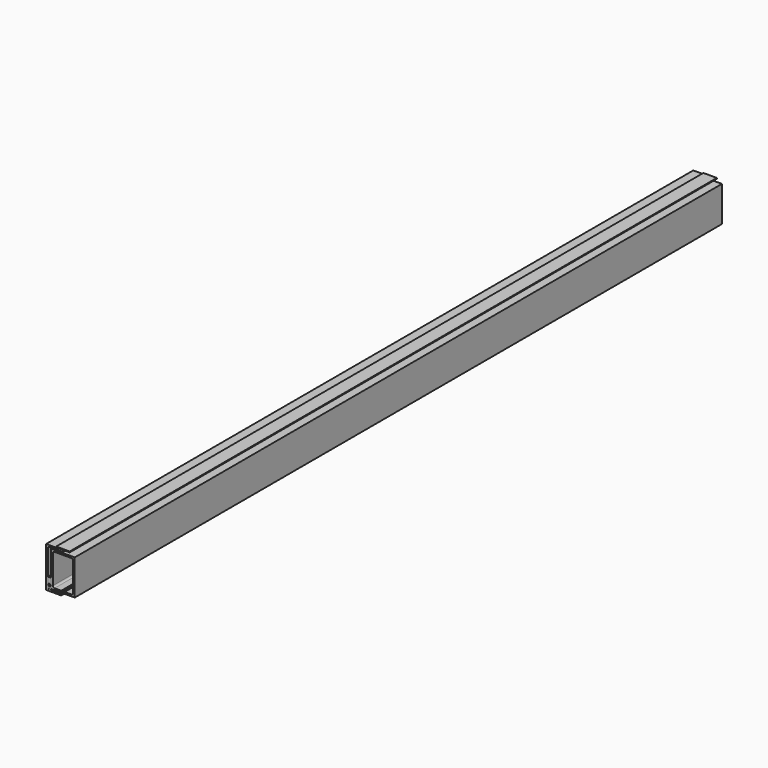
from build123d import *

# Parameters (mm, degrees)
F0_W     = 101.6
F0_H     = 6.35
F1_DEPTH = 6096
F2_DEPTH = 3048


with BuildPart() as f1:
    # F0 (on Front) → F1 (new body)
    with BuildSketch(Plane.XZ):
        with BuildLine():
            ThreePointArc((0, -3.175), (-0.929936, -0.929936), (-3.175, 0))
            Line((-3.175, 0), (-127, 0))
            Line((-127, 0), (-127, -304.8))
            Line((-127, -304.8), (-12.7, -304.8))
            Line((-12.7, -304.8), (-12.7, -292.1))
            Line((-12.7, -292.1), (-101.6, -292.1))
            ThreePointArc((-101.6, -292.1), (-110.580256, -288.380256), (-114.3, -279.4))
            Line((-114.3, -279.4), (-114.3, -25.4))
            ThreePointArc((-114.3, -25.4), (-110.580256, -16.419744), (-101.6, -12.7))
            Line((-101.6, -12.7), (-3.175, -12.7))
            ThreePointArc((-3.175, -12.7), (-0.929936, -11.770064), (0, -9.525))
            Line((0, -9.525), (0, -3.175))
        make_face()
        with BuildLine():
            Line((88.9, -19.05), (-88.9, -19.05))
            Line((-88.9, -19.05), (-88.9, -285.75))
            Line((-88.9, -285.75), (-12.7, -285.75))
            Line((-12.7, -285.75), (-12.7, -273.05))
            Line((-12.7, -273.05), (-63.5, -273.05))
            ThreePointArc((-63.5, -273.05), (-72.480256, -269.330256), (-76.2, -260.35))
            Line((-76.2, -260.35), (-76.2, -44.45))
            ThreePointArc((-76.2, -44.45), (-72.480256, -35.469744), (-63.5, -31.75))
            Line((-63.5, -31.75), (63.5, -31.75))
            ThreePointArc((63.5, -31.75), (72.480256, -35.469744), (76.2, -44.45))
            Line((76.2, -44.45), (76.2, -260.35))
            ThreePointArc((76.2, -260.35), (72.480256, -269.330256), (63.5, -273.05))
            Line((63.5, -273.05), (12.7, -273.05))
            Line((12.7, -273.05), (12.7, -285.75))
            Line((12.7, -285.75), (88.9, -285.75))
            Line((88.9, -285.75), (88.9, -19.05))
        make_face()
        with BuildLine():
            Line((-90.4875, -266.7), (-92.208223, -266.7))
            ThreePointArc((-92.208223, -266.7), (-101.6, -274.6375), (-110.991777, -266.7))
            Line((-110.991777, -266.7), (-114.046, -266.7))
            Line((-114.046, -266.7), (-114.046, -279.4))
            ThreePointArc((-114.046, -279.4), (-110.400651, -288.200651), (-101.6, -291.846))
            Line((-101.6, -291.846), (-90.4875, -291.846))
            Line((-90.4875, -291.846), (-90.4875, -266.7))
        make_face()
        with Locations((0, 4.7625)):
            Rectangle(F0_W, F0_H)
    extrude(amount=-F1_DEPTH)


with BuildPart() as f2:
    # F0 (on Front) → F2 (new body)
    with BuildSketch(Plane.XZ):
        with BuildLine():
            Line((-89.154, -212.725), (-112.7125, -212.725))
            Line((-112.7125, -212.725), (-112.7125, -263.525))
            Line((-112.7125, -263.525), (-110.991777, -263.525))
            ThreePointArc((-110.991777, -263.525), (-101.6, -255.5875), (-92.208223, -263.525))
            Line((-92.208223, -263.525), (-89.154, -263.525))
            Line((-89.154, -263.525), (-89.154, -212.725))
        make_face()
    extrude(amount=-F2_DEPTH)


solid = Compound([f1.part, f2.part])
